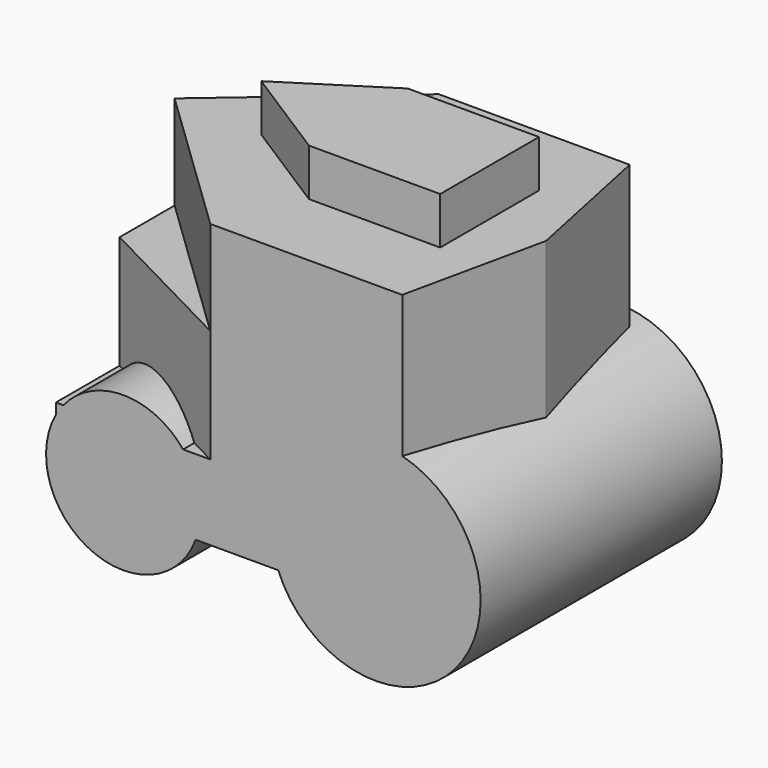
from build123d import *

# Parameters (mm, degrees)
F0_W      = 5080
F0_H      = 3810
F1_DEPTH  = 3810
F3_DEPTH  = 1270
F5_DEPTH  = 5080
F7_DEPTH  = 1524
F9_DEPTH  = 635
F10_R     = 1039.855614
F10_R_2   = 1415.094292
F11_DEPTH = 4064


with BuildPart() as f1:
    # F0 (on Front) → F1 (new body)
    with BuildSketch(Plane.XZ):
        with Locations((3.684264, -31.204443)):
            Rectangle(F0_W, F0_H)
    extrude(amount=F1_DEPTH)

    # F2 (on face) → F3 (cut)
    with BuildSketch(Plane.XY.offset(1873.795557)):
        Polygon((-2536.315736, 0), (-2536.315736, -1811.321616), (-426.875174, 0), align=None)
        Polygon((-455.987006, -3810), (-2536.315736, -1811.321616), (-2536.315736, -3810), align=None)
    extrude(amount=-F3_DEPTH, mode=Mode.SUBTRACT)

    # F4 (on face) → F5 (cut)
    with BuildSketch(Plane.XY.offset(1873.795557)):
        Polygon((2146.736383, 0), (2543.684264, -1905), (2543.684264, 0), align=None)
        Polygon((2543.684264, -1905), (2130.7621, -3810), (2543.684264, -3810), align=None)
    extrude(amount=-F5_DEPTH, mode=Mode.SUBTRACT)

    # F6 (on face) → F7 (cut)
    with BuildSketch(Plane.XY.offset(603.795557)):
        Polygon((-455.987006, -3810), (-2536.315736, -2736.484766), (-2536.315736, -3810), align=None)
        Polygon((-2536.315736, 0), (-2536.315736, -1047.821403), (-455.987006, 0), align=None)
    extrude(amount=-F7_DEPTH, mode=Mode.SUBTRACT)

    # F8 (on face) → F9 (join)
    with BuildSketch(Plane.XY.offset(1873.795557)):
        Polygon((-1307.437301, -1886.96295), (0, -2719.284534), (1768.888235, -2719.284534), (1768.888235, -1054.641366), (0, -1054.641366), align=None)
    extrude(amount=F9_DEPTH)

    # F10 (on face) → F11 (join)
    with BuildSketch(Plane.XZ.offset(3810)):
        with Locations((-1629.155993, -1576.275587)):
            Circle(F10_R)
        with Locations((1771.344781, -1407.081366)):
            Circle(F10_R_2)
    extrude(amount=-F11_DEPTH)


solid = f1.part
